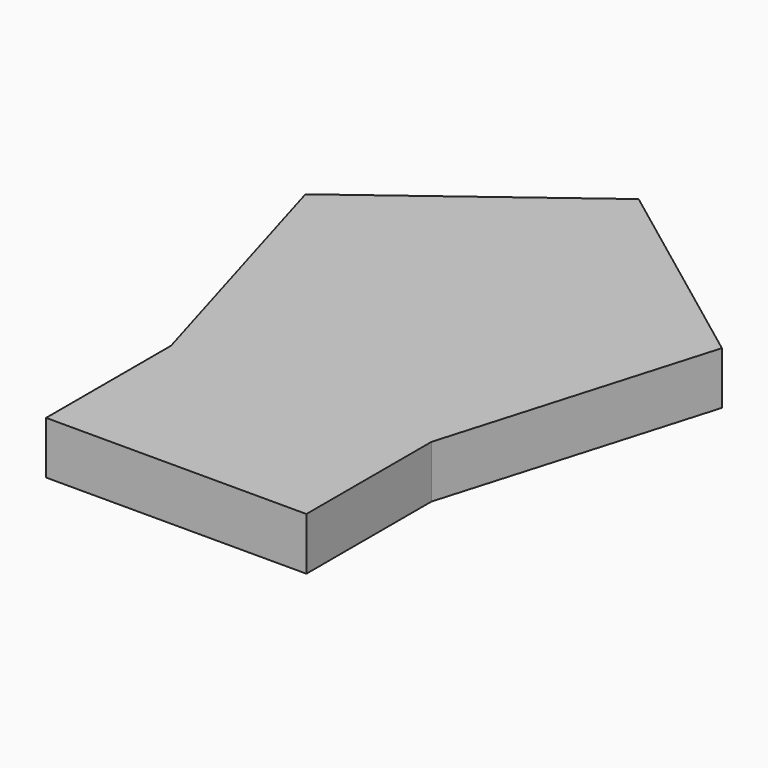
from build123d import *

# Parameters (mm, degrees)
F0_W     = 50
F0_H     = 10
F0_H_2   = 20
F1_DEPTH = 10.1


with BuildPart() as f1:
    # F0 (on Top) → F1 (new body)
    with BuildSketch(Plane.XY):
        Polygon((-40.001453, 11.929379), (-25.008038, -39.072558), (24.991962, -39.072558), (39.998547, 11.925505), align=None)
        Polygon((0, 41.927442), (-40.001453, 11.929379), (39.998547, 11.925505), align=None)
        with Locations((-0.008038, -44.072558)):
            Rectangle(F0_W, F0_H)
        with Locations((-0.008038, -59.072558)):
            Rectangle(F0_W, F0_H_2)
    extrude(amount=F1_DEPTH)


solid = f1.part
